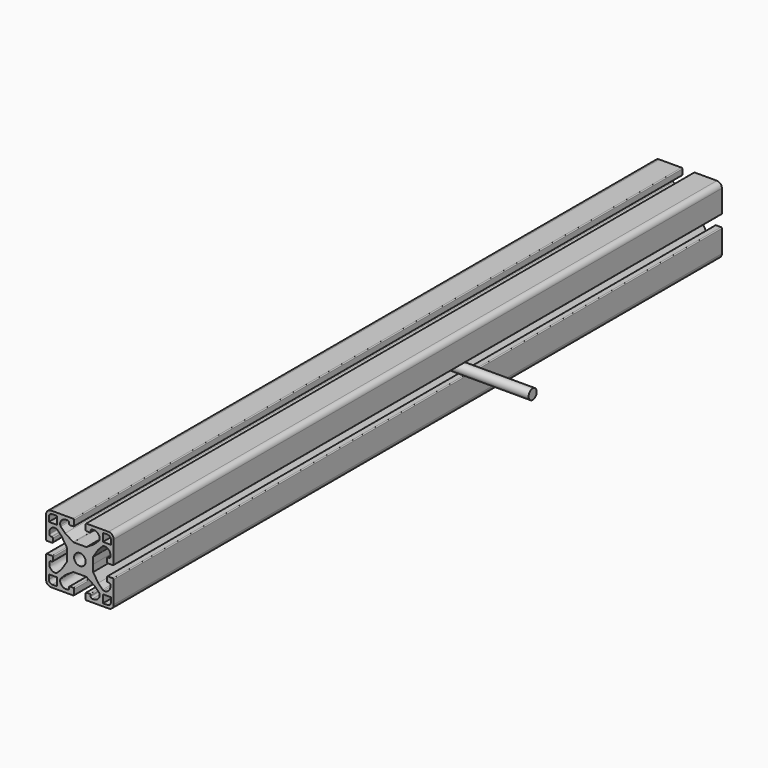
from build123d import *

# Parameters (mm, degrees)
F0_R     = 3.4
F1_DEPTH = 450
F2_R     = 3
F3_DEPTH = 60
F4_DEPTH = 25.4


with BuildPart() as f1:
    # F0 (on Front) → F1 (new body)
    with BuildSketch(Plane.XZ):
        with BuildLine():
            ThreePointArc((-18.3550221846, 16.3550221846), (-17.7692357469, 17.7692357469), (-16.3550221846, 18.3550221846))
            Line((-16.3550221846, 18.3550221846), (-14.0237337309, 18.3550221846))
            add(Edge.make_bspline(
                [(-14.0237337309, 18.3550221845), (-14.2706563501, 18.8700433502), (-14.531764339, 19.4199819881), (-14.8048075585, 20)],
                knots=[0.5315869177, 0.5315869177, 0.5315869177, 0.5315869177, 0.5531016129, 0.5531016129, 0.5531016129, 0.5531016129], degree=3))
            Line((-14.8048075585, 20), (-17, 20))
            ThreePointArc((-17, 20), (-19.1213203436, 19.1213203436), (-20, 17))
            Line((-20, 17), (-20, 14.8048075585))
            add(Edge.make_bspline(
                [(-18.3550221845, 14.0237337309), (-18.8700433502, 14.2706563501), (-19.4199819881, 14.531764339), (-20, 14.8048075585)],
                knots=[0.5315869177, 0.5315869177, 0.5315869177, 0.5315869177, 0.5531016129, 0.5531016129, 0.5531016129, 0.5531016129], degree=3))
            Line((-18.3550221846, 14.0237337309), (-18.3550221846, 16.3550221846))
        make_face()
        with BuildLine():
            add(Edge.make_bspline(
                [(-14.0237337309, 18.3550221845), (-14.2706563501, 18.8700433502), (-14.531764339, 19.4199819881), (-14.8048075585, 20)],
                knots=[0.5315869177, 0.5315869177, 0.5315869177, 0.5315869177, 0.5531016129, 0.5531016129, 0.5531016129, 0.5531016129], degree=3))
            Line((-14.0237337309, 18.3550221846), (-13.6494976468, 18.3550221846))
            Line((-13.6494976468, 18.3550221846), (-13.6494976468, 17.5788207647))
            add(Edge.make_bspline(
                [(-11.594085993, 14.1061210716), (-11.5738798381, 13.895961995), (-11.5790441073, 13.4753849368), (-12.6022550623, 15.4198368213), (-13.6494976468, 17.5788207647)],
                knots=[0.3845285295, 0.3845285295, 0.3845285295, 0.3845285295, 0.4230558589, 0.5203726283, 0.5203726283, 0.5203726283, 0.5203726283], degree=3))
            add(Edge.make_bspline(
                [(-7.3380557529, 18.077673873), (-7.938915425, 18.114965287), (-9.2671967698, 18.1126101908), (-10.8204009228, 17.1496223508), (-11.7986304949, 15.6154448581), (-11.6169304386, 14.3437203378), (-11.594085993, 14.1061210716)],
                knots=[0.041617921, 0.041617921, 0.041617921, 0.041617921, 0.1226487952, 0.2279423965, 0.3409707382, 0.3845285295, 0.3845285295, 0.3845285295, 0.3845285295], degree=3))
            ThreePointArc((-7.3380557529, 18.077673873), (-6.6713216598, 17.7644503609), (-6.4, 17.0795942618))
            Line((-6.4, 17.0795942618), (-6.4, 16.5))
            ThreePointArc((-6.4, 16.5), (-6.2535533906, 16.1464466094), (-5.9, 16))
            Line((-5.9, 16), (-3.9, 16))
            ThreePointArc((-3.9, 16), (-3.5464466094, 16.1464466094), (-3.4, 16.5))
            Line((-3.4, 16.5), (-3.4, 19.5))
            ThreePointArc((-3.4, 19.5), (-3.5464466094, 19.8535533906), (-3.9, 20))
            Line((-3.9, 20), (-14.8048075585, 20))
        make_face()
        with BuildLine():
            add(Edge.make_bspline(
                [(-11.594085993, 14.1061210716), (-11.5738798381, 13.895961995), (-11.5790441073, 13.4753849368), (-12.6022550623, 15.4198368213), (-13.6494976468, 17.5788207647)],
                knots=[0.3845285295, 0.3845285295, 0.3845285295, 0.3845285295, 0.4230558589, 0.5203726283, 0.5203726283, 0.5203726283, 0.5203726283], degree=3))
            Line((-13.6494976468, 17.5788207647), (-13.6494976468, 13.6494976468))
            Line((-13.6494976468, 13.6494976468), (-17.5788207647, 13.6494976468))
            add(Edge.make_bspline(
                [(-14.1061210716, 11.594085993), (-13.895961995, 11.5738798381), (-13.4753849368, 11.5790441073), (-15.4198368213, 12.6022550623), (-17.5788207647, 13.6494976468)],
                knots=[0.3845285295, 0.3845285295, 0.3845285295, 0.3845285295, 0.4230558589, 0.5203726283, 0.5203726283, 0.5203726283, 0.5203726283], degree=3))
            ThreePointArc((-14.1061210716, 11.594085993), (-13.7753216108, 11.5031614821), (-13.4947198987, 11.3057830914))
            Line((-13.4947198987, 11.3057830914), (-10.8786681667, 8.6897313595))
            Line((-10.8786681667, 8.6897313595), (-7.8307420977, 3.9992546314))
            ThreePointArc((-7.8307420977, 3.9992546314), (-7.7706103093, 3.8688917636), (-7.75, 3.7268159936))
            Line((-7.75, 3.7268159936), (-7.75, -3.7268159936))
            ThreePointArc((-7.75, -3.7268159936), (-7.7706103093, -3.8688917636), (-7.8307420977, -3.9992546314))
            Line((-7.8307420977, -3.9992546314), (-10.8786681667, -8.6897313595))
            Line((-10.8786681667, -8.6897313595), (-13.4947198987, -11.3057830914))
            ThreePointArc((-13.4947198987, -11.3057830914), (-13.7753216108, -11.5031614821), (-14.1061210716, -11.594085993))
            add(Edge.make_bspline(
                [(-14.1061210716, -11.594085993), (-13.895961995, -11.5738798381), (-13.4753849368, -11.5790441073), (-15.4198368213, -12.6022550623), (-17.5788207647, -13.6494976468)],
                knots=[0.3845285295, 0.3845285295, 0.3845285295, 0.3845285295, 0.4230558589, 0.5203726283, 0.5203726283, 0.5203726283, 0.5203726283], degree=3))
            Line((-17.5788207647, -13.6494976468), (-13.6494976468, -13.6494976468))
            Line((-13.6494976468, -13.6494976468), (-13.6494976468, -17.5788207647))
            add(Edge.make_bspline(
                [(-11.594085993, -14.1061210716), (-11.5738798381, -13.895961995), (-11.5790441073, -13.4753849368), (-12.6022550623, -15.4198368213), (-13.6494976468, -17.5788207647)],
                knots=[0.3845285295, 0.3845285295, 0.3845285295, 0.3845285295, 0.4230558589, 0.5203726283, 0.5203726283, 0.5203726283, 0.5203726283], degree=3))
            ThreePointArc((-11.594085993, -14.1061210716), (-11.5031614821, -13.7753216108), (-11.3057830914, -13.4947198987))
            Line((-11.3057830914, -13.4947198987), (-8.6897313595, -10.8786681667))
            Line((-8.6897313595, -10.8786681667), (-3.9992546314, -7.8307420977))
            ThreePointArc((-3.9992546314, -7.8307420977), (-3.8688917636, -7.7706103093), (-3.7268159936, -7.75))
            Line((-3.7268159936, -7.75), (0, -7.75))
            Line((0, -7.75), (3.7268159936, -7.75))
            ThreePointArc((3.7268159936, -7.75), (3.8688917636, -7.7706103093), (3.9992546314, -7.8307420977))
            Line((3.9992546314, -7.8307420977), (8.6897313595, -10.8786681667))
            Line((8.6897313595, -10.8786681667), (11.3057830914, -13.4947198987))
            ThreePointArc((11.3057830914, -13.4947198987), (11.5031614821, -13.7753216108), (11.594085993, -14.1061210716))
            add(Edge.make_bspline(
                [(11.594085993, -14.1061210716), (11.5738798381, -13.895961995), (11.5790441073, -13.4753849368), (12.6022550623, -15.4198368213), (13.6494976468, -17.5788207647)],
                knots=[0.3845285295, 0.3845285295, 0.3845285295, 0.3845285295, 0.4230558589, 0.5203726283, 0.5203726283, 0.5203726283, 0.5203726283], degree=3))
            Line((13.6494976468, -17.5788207647), (13.6494976468, -13.6494976468))
            Line((13.6494976468, -13.6494976468), (17.5788207647, -13.6494976468))
            add(Edge.make_bspline(
                [(14.1061210716, -11.594085993), (13.895961995, -11.5738798381), (13.4753849368, -11.5790441073), (15.4198368213, -12.6022550623), (17.5788207647, -13.6494976468)],
                knots=[0.3845285295, 0.3845285295, 0.3845285295, 0.3845285295, 0.4230558589, 0.5203726283, 0.5203726283, 0.5203726283, 0.5203726283], degree=3))
            ThreePointArc((14.1061210716, -11.594085993), (13.7753216108, -11.5031614821), (13.4947198987, -11.3057830914))
            Line((13.4947198987, -11.3057830914), (10.8786681667, -8.6897313595))
            Line((10.8786681667, -8.6897313595), (7.8307420977, -3.9992546314))
            Line((7.8307420977, -3.9992546314), (7.75, 0))
            Line((7.75, 0), (7.75, 3.7268159936))
            ThreePointArc((7.75, 3.7268159936), (7.7706103093, 3.8688917636), (7.8307420977, 3.9992546314))
            Line((7.8307420977, 3.9992546314), (10.8786681667, 8.6897313595))
            Line((10.8786681667, 8.6897313595), (13.4947198987, 11.3057830914))
            ThreePointArc((13.4947198987, 11.3057830914), (13.7753216108, 11.5031614821), (14.1061210716, 11.594085993))
            add(Edge.make_bspline(
                [(14.1061210716, 11.594085993), (13.895961995, 11.5738798381), (13.4753849368, 11.5790441073), (15.4198368213, 12.6022550623), (17.5788207647, 13.6494976468)],
                knots=[0.3845285295, 0.3845285295, 0.3845285295, 0.3845285295, 0.4230558589, 0.5203726283, 0.5203726283, 0.5203726283, 0.5203726283], degree=3))
            Line((17.5788207647, 13.6494976468), (13.6494976468, 13.6494976468))
            Line((13.6494976468, 13.6494976468), (13.6494976468, 17.5788207647))
            add(Edge.make_bspline(
                [(11.594085993, 14.1061210716), (11.5738798381, 13.895961995), (11.5790441073, 13.4753849368), (12.6022550623, 15.4198368213), (13.6494976468, 17.5788207647)],
                knots=[0.3845285295, 0.3845285295, 0.3845285295, 0.3845285295, 0.4230558589, 0.5203726283, 0.5203726283, 0.5203726283, 0.5203726283], degree=3))
            ThreePointArc((11.594085993, 14.1061210716), (11.5031614821, 13.7753216108), (11.3057830914, 13.4947198987))
            Line((11.3057830914, 13.4947198987), (8.6897313595, 10.8786681667))
            Line((8.6897313595, 10.8786681667), (3.9992546314, 7.8307420977))
            ThreePointArc((3.9992546314, 7.8307420977), (3.8688917636, 7.7706103093), (3.7268159936, 7.75))
            Line((3.7268159936, 7.75), (0, 7.75))
            Line((0, 7.75), (-3.7268159936, 7.75))
            ThreePointArc((-3.7268159936, 7.75), (-3.8688917636, 7.7706103093), (-3.9992546314, 7.8307420977))
            Line((-3.9992546314, 7.8307420977), (-8.6897313595, 10.8786681667))
            Line((-8.6897313595, 10.8786681667), (-11.3057830914, 13.4947198987))
            ThreePointArc((-11.3057830914, 13.4947198987), (-11.5031614821, 13.7753216108), (-11.594085993, 14.1061210716))
        make_face()
        Circle(F0_R, mode=Mode.SUBTRACT)
        with BuildLine():
            Line((-18.3550221846, 13.6494976468), (-18.3550221846, 14.0237337309))
            add(Edge.make_bspline(
                [(-18.3550221845, 14.0237337309), (-18.8700433502, 14.2706563501), (-19.4199819881, 14.531764339), (-20, 14.8048075585)],
                knots=[0.5315869177, 0.5315869177, 0.5315869177, 0.5315869177, 0.5531016129, 0.5531016129, 0.5531016129, 0.5531016129], degree=3))
            Line((-20, 14.8048075585), (-20, 3.9))
            ThreePointArc((-20, 3.9), (-19.8535533906, 3.5464466094), (-19.5, 3.4))
            Line((-19.5, 3.4), (-16.5, 3.4))
            ThreePointArc((-16.5, 3.4), (-16.1464466094, 3.5464466094), (-16, 3.9))
            Line((-16, 3.9), (-16, 5.9))
            ThreePointArc((-16, 5.9), (-16.1464466094, 6.2535533906), (-16.5, 6.4))
            Line((-16.5, 6.4), (-17.0795942618, 6.4))
            ThreePointArc((-17.0795942618, 6.4), (-17.7644503609, 6.6713216598), (-18.077673873, 7.3380557529))
            add(Edge.make_bspline(
                [(-18.077673873, 7.3380557529), (-18.114965287, 7.938915425), (-18.1126101908, 9.2671967698), (-17.1496223508, 10.8204009228), (-15.6154448581, 11.7986304949), (-14.3437203378, 11.6169304386), (-14.1061210716, 11.594085993)],
                knots=[0.041617921, 0.041617921, 0.041617921, 0.041617921, 0.1226487952, 0.2279423965, 0.3409707382, 0.3845285295, 0.3845285295, 0.3845285295, 0.3845285295], degree=3))
            add(Edge.make_bspline(
                [(-14.1061210716, 11.594085993), (-13.895961995, 11.5738798381), (-13.4753849368, 11.5790441073), (-15.4198368213, 12.6022550623), (-17.5788207647, 13.6494976468)],
                knots=[0.3845285295, 0.3845285295, 0.3845285295, 0.3845285295, 0.4230558589, 0.5203726283, 0.5203726283, 0.5203726283, 0.5203726283], degree=3))
            Line((-17.5788207647, 13.6494976468), (-18.3550221846, 13.6494976468))
        make_face()
        with BuildLine():
            add(Edge.make_bspline(
                [(7.3380557529, 18.077673873), (7.938915425, 18.114965287), (9.2671967698, 18.1126101908), (10.8204009228, 17.1496223508), (11.7986304949, 15.6154448581), (11.6169304386, 14.3437203378), (11.594085993, 14.1061210716)],
                knots=[0.041617921, 0.041617921, 0.041617921, 0.041617921, 0.1226487952, 0.2279423965, 0.3409707382, 0.3845285295, 0.3845285295, 0.3845285295, 0.3845285295], degree=3))
            add(Edge.make_bspline(
                [(11.594085993, 14.1061210716), (11.5738798381, 13.895961995), (11.5790441073, 13.4753849368), (12.6022550623, 15.4198368213), (13.6494976468, 17.5788207647)],
                knots=[0.3845285295, 0.3845285295, 0.3845285295, 0.3845285295, 0.4230558589, 0.5203726283, 0.5203726283, 0.5203726283, 0.5203726283], degree=3))
            Line((13.6494976468, 17.5788207647), (13.6494976468, 18.3550221846))
            Line((13.6494976468, 18.3550221846), (14.0237337309, 18.3550221846))
            add(Edge.make_bspline(
                [(14.0237337309, 18.3550221845), (14.2706563501, 18.8700433502), (14.531764339, 19.4199819881), (14.8048075585, 20)],
                knots=[0.5315869177, 0.5315869177, 0.5315869177, 0.5315869177, 0.5531016129, 0.5531016129, 0.5531016129, 0.5531016129], degree=3))
            Line((14.8048075585, 20), (3.9, 20))
            ThreePointArc((3.9, 20), (3.5464466094, 19.8535533906), (3.4, 19.5))
            Line((3.4, 19.5), (3.4, 16.5))
            ThreePointArc((3.4, 16.5), (3.5464466094, 16.1464466094), (3.9, 16))
            Line((3.9, 16), (5.9, 16))
            ThreePointArc((5.9, 16), (6.2535533906, 16.1464466094), (6.4, 16.5))
            Line((6.4, 16.5), (6.4, 17.0795942618))
            ThreePointArc((6.4, 17.0795942618), (6.6713216598, 17.7644503609), (7.3380557529, 18.077673873))
        make_face()
        with BuildLine():
            add(Edge.make_bspline(
                [(-14.1061210716, -11.594085993), (-13.895961995, -11.5738798381), (-13.4753849368, -11.5790441073), (-15.4198368213, -12.6022550623), (-17.5788207647, -13.6494976468)],
                knots=[0.3845285295, 0.3845285295, 0.3845285295, 0.3845285295, 0.4230558589, 0.5203726283, 0.5203726283, 0.5203726283, 0.5203726283], degree=3))
            add(Edge.make_bspline(
                [(-18.077673873, -7.3380557529), (-18.114965287, -7.938915425), (-18.1126101908, -9.2671967698), (-17.1496223508, -10.8204009228), (-15.6154448581, -11.7986304949), (-14.3437203378, -11.6169304386), (-14.1061210716, -11.594085993)],
                knots=[0.041617921, 0.041617921, 0.041617921, 0.041617921, 0.1226487952, 0.2279423965, 0.3409707382, 0.3845285295, 0.3845285295, 0.3845285295, 0.3845285295], degree=3))
            ThreePointArc((-18.077673873, -7.3380557529), (-17.7644503609, -6.6713216598), (-17.0795942618, -6.4))
            Line((-17.0795942618, -6.4), (-16.5, -6.4))
            ThreePointArc((-16.5, -6.4), (-16.1464466094, -6.2535533906), (-16, -5.9))
            Line((-16, -5.9), (-16, -3.9))
            ThreePointArc((-16, -3.9), (-16.1464466094, -3.5464466094), (-16.5, -3.4))
            Line((-16.5, -3.4), (-19.5, -3.4))
            ThreePointArc((-19.5, -3.4), (-19.8535533906, -3.5464466094), (-20, -3.9))
            Line((-20, -3.9), (-20, -14.8048075585))
            add(Edge.make_bspline(
                [(-18.3550221845, -14.0237337309), (-18.8700433502, -14.2706563501), (-19.4199819881, -14.531764339), (-20, -14.8048075585)],
                knots=[0.5315869177, 0.5315869177, 0.5315869177, 0.5315869177, 0.5531016129, 0.5531016129, 0.5531016129, 0.5531016129], degree=3))
            Line((-18.3550221846, -14.0237337309), (-18.3550221846, -13.6494976468))
            Line((-18.3550221846, -13.6494976468), (-17.5788207647, -13.6494976468))
        make_face()
        with BuildLine():
            add(Edge.make_bspline(
                [(14.0237337309, 18.3550221845), (14.2706563501, 18.8700433502), (14.531764339, 19.4199819881), (14.8048075585, 20)],
                knots=[0.5315869177, 0.5315869177, 0.5315869177, 0.5315869177, 0.5531016129, 0.5531016129, 0.5531016129, 0.5531016129], degree=3))
            Line((14.0237337309, 18.3550221846), (16.3550221846, 18.3550221846))
            ThreePointArc((16.3550221846, 18.3550221846), (17.7692357469, 17.7692357469), (18.3550221846, 16.3550221846))
            Line((18.3550221846, 16.3550221846), (18.3550221846, 14.0237337309))
            add(Edge.make_bspline(
                [(18.3550221845, 14.0237337309), (18.8700433502, 14.2706563501), (19.4199819881, 14.531764339), (20, 14.8048075585)],
                knots=[0.5315869177, 0.5315869177, 0.5315869177, 0.5315869177, 0.5531016129, 0.5531016129, 0.5531016129, 0.5531016129], degree=3))
            Line((20, 14.8048075585), (20, 17))
            ThreePointArc((20, 17), (19.1213203436, 19.1213203436), (17, 20))
            Line((17, 20), (14.8048075585, 20))
        make_face()
        with BuildLine():
            Line((-18.3550221846, -16.3550221846), (-18.3550221846, -14.0237337309))
            add(Edge.make_bspline(
                [(-18.3550221845, -14.0237337309), (-18.8700433502, -14.2706563501), (-19.4199819881, -14.531764339), (-20, -14.8048075585)],
                knots=[0.5315869177, 0.5315869177, 0.5315869177, 0.5315869177, 0.5531016129, 0.5531016129, 0.5531016129, 0.5531016129], degree=3))
            Line((-20, -14.8048075585), (-20, -17))
            ThreePointArc((-20, -17), (-19.1213203436, -19.1213203436), (-17, -20))
            Line((-17, -20), (-14.8048075585, -20))
            add(Edge.make_bspline(
                [(-14.0237337309, -18.3550221845), (-14.2706563501, -18.8700433502), (-14.531764339, -19.4199819881), (-14.8048075585, -20)],
                knots=[0.5315869177, 0.5315869177, 0.5315869177, 0.5315869177, 0.5531016129, 0.5531016129, 0.5531016129, 0.5531016129], degree=3))
            Line((-14.0237337309, -18.3550221846), (-16.3550221846, -18.3550221846))
            ThreePointArc((-16.3550221846, -18.3550221846), (-17.7692357469, -17.7692357469), (-18.3550221846, -16.3550221846))
        make_face()
        with BuildLine():
            Line((18.3550221846, 13.6494976468), (17.5788207647, 13.6494976468))
            add(Edge.make_bspline(
                [(14.1061210716, 11.594085993), (13.895961995, 11.5738798381), (13.4753849368, 11.5790441073), (15.4198368213, 12.6022550623), (17.5788207647, 13.6494976468)],
                knots=[0.3845285295, 0.3845285295, 0.3845285295, 0.3845285295, 0.4230558589, 0.5203726283, 0.5203726283, 0.5203726283, 0.5203726283], degree=3))
            add(Edge.make_bspline(
                [(18.077673873, 7.3380557529), (18.114965287, 7.938915425), (18.1126101908, 9.2671967698), (17.1496223508, 10.8204009228), (15.6154448581, 11.7986304949), (14.3437203378, 11.6169304386), (14.1061210716, 11.594085993)],
                knots=[0.041617921, 0.041617921, 0.041617921, 0.041617921, 0.1226487952, 0.2279423965, 0.3409707382, 0.3845285295, 0.3845285295, 0.3845285295, 0.3845285295], degree=3))
            ThreePointArc((18.077673873, 7.3380557529), (17.7644503609, 6.6713216598), (17.0795942618, 6.4))
            Line((17.0795942618, 6.4), (16.5, 6.4))
            ThreePointArc((16.5, 6.4), (16.1464466094, 6.2535533906), (16, 5.9))
            Line((16, 5.9), (16, 3.9))
            ThreePointArc((16, 3.9), (16.1464466094, 3.5464466094), (16.5, 3.4))
            Line((16.5, 3.4), (19.5, 3.4))
            ThreePointArc((19.5, 3.4), (19.8535533906, 3.5464466094), (20, 3.9))
            Line((20, 3.9), (20, 14.8048075585))
            add(Edge.make_bspline(
                [(18.3550221845, 14.0237337309), (18.8700433502, 14.2706563501), (19.4199819881, 14.531764339), (20, 14.8048075585)],
                knots=[0.5315869177, 0.5315869177, 0.5315869177, 0.5315869177, 0.5531016129, 0.5531016129, 0.5531016129, 0.5531016129], degree=3))
            Line((18.3550221846, 14.0237337309), (18.3550221846, 13.6494976468))
        make_face()
        with BuildLine():
            add(Edge.make_bspline(
                [(-11.594085993, -14.1061210716), (-11.5738798381, -13.895961995), (-11.5790441073, -13.4753849368), (-12.6022550623, -15.4198368213), (-13.6494976468, -17.5788207647)],
                knots=[0.3845285295, 0.3845285295, 0.3845285295, 0.3845285295, 0.4230558589, 0.5203726283, 0.5203726283, 0.5203726283, 0.5203726283], degree=3))
            Line((-13.6494976468, -17.5788207647), (-13.6494976468, -18.3550221846))
            Line((-13.6494976468, -18.3550221846), (-14.0237337309, -18.3550221846))
            add(Edge.make_bspline(
                [(-14.0237337309, -18.3550221845), (-14.2706563501, -18.8700433502), (-14.531764339, -19.4199819881), (-14.8048075585, -20)],
                knots=[0.5315869177, 0.5315869177, 0.5315869177, 0.5315869177, 0.5531016129, 0.5531016129, 0.5531016129, 0.5531016129], degree=3))
            Line((-14.8048075585, -20), (-3.9, -20))
            ThreePointArc((-3.9, -20), (-3.5464466094, -19.8535533906), (-3.4, -19.5))
            Line((-3.4, -19.5), (-3.4, -16.5))
            ThreePointArc((-3.4, -16.5), (-3.5464466094, -16.1464466094), (-3.9, -16))
            Line((-3.9, -16), (-5.9, -16))
            ThreePointArc((-5.9, -16), (-6.2535533906, -16.1464466094), (-6.4, -16.5))
            Line((-6.4, -16.5), (-6.4, -17.0795942618))
            ThreePointArc((-6.4, -17.0795942618), (-6.6713216598, -17.7644503609), (-7.3380557529, -18.077673873))
            add(Edge.make_bspline(
                [(-7.3380557529, -18.077673873), (-7.938915425, -18.114965287), (-9.2671967698, -18.1126101908), (-10.8204009228, -17.1496223508), (-11.7986304949, -15.6154448581), (-11.6169304386, -14.3437203378), (-11.594085993, -14.1061210716)],
                knots=[0.041617921, 0.041617921, 0.041617921, 0.041617921, 0.1226487952, 0.2279423965, 0.3409707382, 0.3845285295, 0.3845285295, 0.3845285295, 0.3845285295], degree=3))
        make_face()
        with BuildLine():
            add(Edge.make_bspline(
                [(18.077673873, -7.3380557529), (18.114965287, -7.938915425), (18.1126101908, -9.2671967698), (17.1496223508, -10.8204009228), (15.6154448581, -11.7986304949), (14.3437203378, -11.6169304386), (14.1061210716, -11.594085993)],
                knots=[0.041617921, 0.041617921, 0.041617921, 0.041617921, 0.1226487952, 0.2279423965, 0.3409707382, 0.3845285295, 0.3845285295, 0.3845285295, 0.3845285295], degree=3))
            add(Edge.make_bspline(
                [(14.1061210716, -11.594085993), (13.895961995, -11.5738798381), (13.4753849368, -11.5790441073), (15.4198368213, -12.6022550623), (17.5788207647, -13.6494976468)],
                knots=[0.3845285295, 0.3845285295, 0.3845285295, 0.3845285295, 0.4230558589, 0.5203726283, 0.5203726283, 0.5203726283, 0.5203726283], degree=3))
            Line((17.5788207647, -13.6494976468), (18.3550221846, -13.6494976468))
            Line((18.3550221846, -13.6494976468), (18.3550221846, -14.0237337309))
            add(Edge.make_bspline(
                [(18.3550221845, -14.0237337309), (18.8700433502, -14.2706563501), (19.4199819881, -14.531764339), (20, -14.8048075585)],
                knots=[0.5315869177, 0.5315869177, 0.5315869177, 0.5315869177, 0.5531016129, 0.5531016129, 0.5531016129, 0.5531016129], degree=3))
            Line((20, -14.8048075585), (20, -3.9))
            ThreePointArc((20, -3.9), (19.8535533906, -3.5464466094), (19.5, -3.4))
            Line((19.5, -3.4), (16.5, -3.4))
            ThreePointArc((16.5, -3.4), (16.1464466094, -3.5464466094), (16, -3.9))
            Line((16, -3.9), (16, -5.9))
            ThreePointArc((16, -5.9), (16.1464466094, -6.2535533906), (16.5, -6.4))
            Line((16.5, -6.4), (17.0795942618, -6.4))
            ThreePointArc((17.0795942618, -6.4), (17.7644503609, -6.6713216598), (18.077673873, -7.3380557529))
        make_face()
        with BuildLine():
            add(Edge.make_bspline(
                [(11.594085993, -14.1061210716), (11.5738798381, -13.895961995), (11.5790441073, -13.4753849368), (12.6022550623, -15.4198368213), (13.6494976468, -17.5788207647)],
                knots=[0.3845285295, 0.3845285295, 0.3845285295, 0.3845285295, 0.4230558589, 0.5203726283, 0.5203726283, 0.5203726283, 0.5203726283], degree=3))
            add(Edge.make_bspline(
                [(7.3380557529, -18.077673873), (7.938915425, -18.114965287), (9.2671967698, -18.1126101908), (10.8204009228, -17.1496223508), (11.7986304949, -15.6154448581), (11.6169304386, -14.3437203378), (11.594085993, -14.1061210716)],
                knots=[0.041617921, 0.041617921, 0.041617921, 0.041617921, 0.1226487952, 0.2279423965, 0.3409707382, 0.3845285295, 0.3845285295, 0.3845285295, 0.3845285295], degree=3))
            ThreePointArc((7.3380557529, -18.077673873), (6.6713216598, -17.7644503609), (6.4, -17.0795942618))
            Line((6.4, -17.0795942618), (6.4, -16.5))
            ThreePointArc((6.4, -16.5), (6.2535533906, -16.1464466094), (5.9, -16))
            Line((5.9, -16), (3.9, -16))
            ThreePointArc((3.9, -16), (3.5464466094, -16.1464466094), (3.4, -16.5))
            Line((3.4, -16.5), (3.4, -19.5))
            ThreePointArc((3.4, -19.5), (3.5464466094, -19.8535533906), (3.9, -20))
            Line((3.9, -20), (14.8048075585, -20))
            add(Edge.make_bspline(
                [(14.0237337309, -18.3550221845), (14.2706563501, -18.8700433502), (14.531764339, -19.4199819881), (14.8048075585, -20)],
                knots=[0.5315869177, 0.5315869177, 0.5315869177, 0.5315869177, 0.5531016129, 0.5531016129, 0.5531016129, 0.5531016129], degree=3))
            Line((14.0237337309, -18.3550221846), (13.6494976468, -18.3550221846))
            Line((13.6494976468, -18.3550221846), (13.6494976468, -17.5788207647))
        make_face()
        with BuildLine():
            add(Edge.make_bspline(
                [(18.3550221845, -14.0237337309), (18.8700433502, -14.2706563501), (19.4199819881, -14.531764339), (20, -14.8048075585)],
                knots=[0.5315869177, 0.5315869177, 0.5315869177, 0.5315869177, 0.5531016129, 0.5531016129, 0.5531016129, 0.5531016129], degree=3))
            Line((18.3550221846, -14.0237337309), (18.3550221846, -16.3550221846))
            ThreePointArc((18.3550221846, -16.3550221846), (17.7692357469, -17.7692357469), (16.3550221846, -18.3550221846))
            Line((16.3550221846, -18.3550221846), (14.0237337309, -18.3550221846))
            add(Edge.make_bspline(
                [(14.0237337309, -18.3550221845), (14.2706563501, -18.8700433502), (14.531764339, -19.4199819881), (14.8048075585, -20)],
                knots=[0.5315869177, 0.5315869177, 0.5315869177, 0.5315869177, 0.5531016129, 0.5531016129, 0.5531016129, 0.5531016129], degree=3))
            Line((14.8048075585, -20), (17, -20))
            ThreePointArc((17, -20), (19.1213203436, -19.1213203436), (20, -17))
            Line((20, -17), (20, -14.8048075585))
        make_face()
    extrude(amount=F1_DEPTH)

    # F2 (on Right) → F3 (join)
    with BuildSketch(Plane.YZ):
        with Locations((-190, 0)):
            Circle(F2_R)
    extrude(amount=F3_DEPTH)

    # F2 (on Right) → F4 (join)
    with BuildSketch(Plane.YZ):
        with Locations((-190, 0)):
            Circle(F2_R)
    extrude(amount=F4_DEPTH)


solid = f1.part
